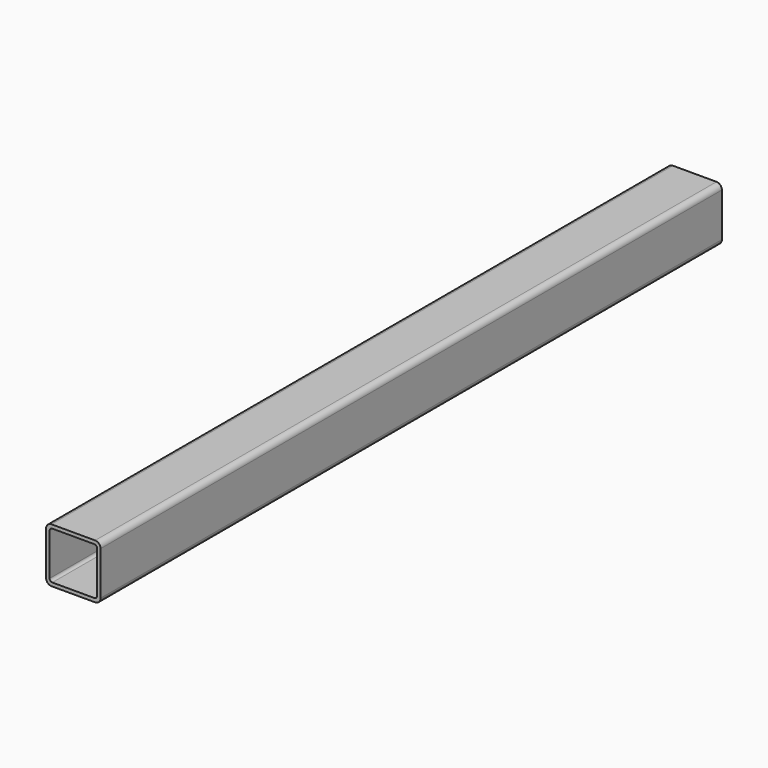
from build123d import *

# Parameters (mm, degrees)
F0_W     = 40
F0_H     = 40
F0_W_2   = 34.8
F0_H_2   = 34.8
F1_DEPTH = 570
F2_R     = 2
F3_R     = 4


with BuildPart() as f1:
    # F0 (on Front) → F1 (new body)
    with BuildSketch(Plane.XZ):
        Rectangle(F0_W, F0_H)
        Rectangle(F0_W_2, F0_H_2, mode=Mode.SUBTRACT)
    extrude(amount=F1_DEPTH)

    # F2
    f2_edges = [f1.edges().sort_by_distance(p)[0] for p in [
        (-17.4, -285, -17.4),
        (-17.4, -285, 17.4),
        (17.4, -285, 17.4),
        (17.4, -285, -17.4),
    ]]
    fillet(f2_edges, radius=F2_R)

    # F3
    f3_edges = [f1.edges().sort_by_distance(p)[0] for p in [
        (20, -285, 20),
        (-20, -285, 20),
        (20, -285, -20),
        (-20, -285, -20),
    ]]
    fillet(f3_edges, radius=F3_R)


solid = f1.part
